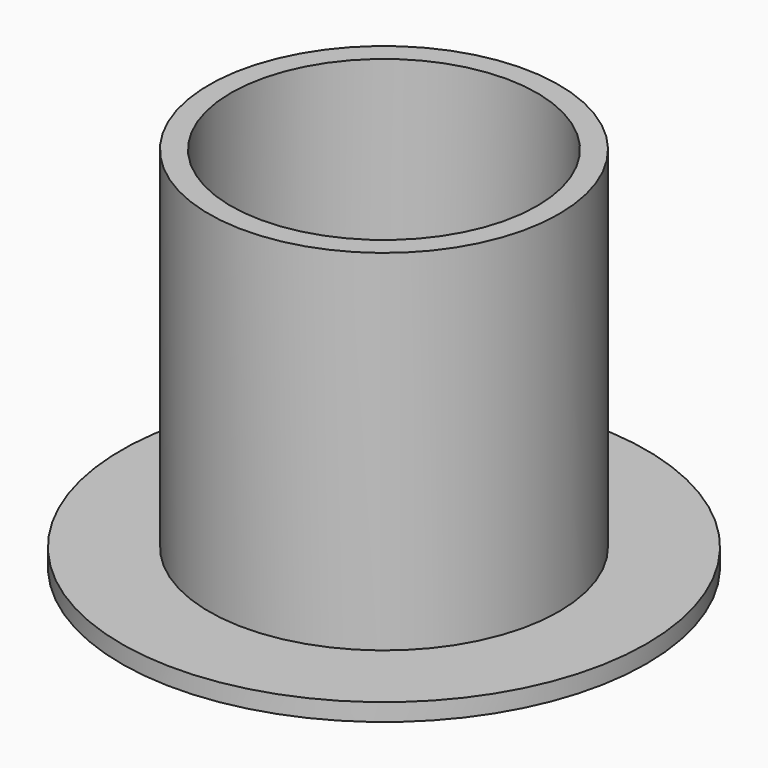
from build123d import *

# Parameters (mm, degrees)
F0_R     = 25.4
F0_R_2   = 22.225
F1_DEPTH = 50.8
F2_R     = 38.1
F2_R_2   = 22.225
F3_DEPTH = 2.54


with BuildPart() as f1:
    # F0 (on Top) → F1 (new body)
    with BuildSketch(Plane.XY):
        Circle(F0_R)
        Circle(F0_R_2, mode=Mode.SUBTRACT)
    extrude(amount=F1_DEPTH)

    # F2 (on Top) → F3 (join)
    with BuildSketch(Plane.XY):
        Circle(F2_R)
        Circle(F2_R_2, mode=Mode.SUBTRACT)
    extrude(amount=-F3_DEPTH)


solid = f1.part
